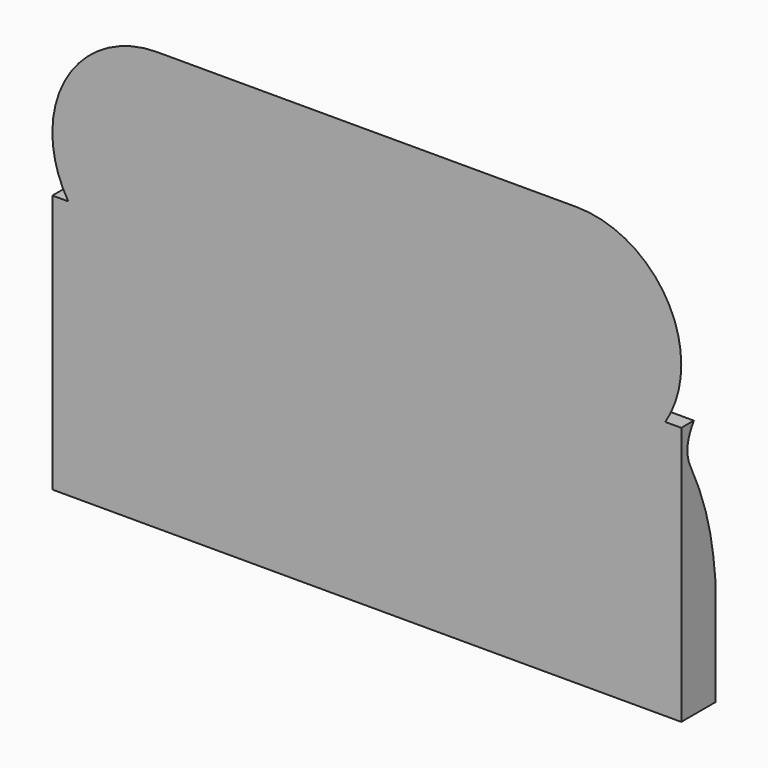
from build123d import *

# Parameters (mm, degrees)
PAD001_DEPTH              = 3
PAD001_DEPTH_BACK         = 3
REVOLUTION_ANGLE          = -90
PAD_DEPTH                 = 2
FUSION002_PLACEMENT_ANGLE = 90


with BuildPart() as body002:
    # Sketch002 → Pad001 (new body, two sides)
    with BuildSketch(Plane.YZ) as pad001_sk:
        with BuildLine():
            Line((0, -3), (0.41, -3))
            Line((0.41, -3), (0.41, -2))
            add(Edge.make_bspline(
                [(0.15, -0.53), (0.02526, -0.71971), (0.132942, -0.952639), (0.251229, -1.193198), (0.378371, -1.633026), (0.41, -2)],
                knots=[0, 0, 0, 0, 0.333333, 0.666667, 1, 1, 1, 1], degree=3))
            Line((0.15, -0.53), (0, -0.53))
            Line((0, -0.53), (0, -3))
        make_face()
    extrude(amount=PAD001_DEPTH)
    extrude(pad001_sk.sketch, amount=-PAD001_DEPTH_BACK)


with BuildPart() as body001:
    # Sketch001 → Revolution (revolve)
    with BuildSketch(Plane.YZ):
        with BuildLine():
            add(Edge.make_bspline(
                [(1, 0), (0.28, 0.03012), (0.24, 0.65), (0, 0.65)],
                knots=[0, 0, 0, 0, 1, 1, 1, 1], degree=3))
            Line((0, 0.65), (0, 0))
            Line((0, 0), (1, 0))
        make_face()
    revolve(axis=Axis((0, 0, 0), (0, 0, 1)), revolution_arc=REVOLUTION_ANGLE)


with BuildPart() as body001_1:
    # Body001 placement: moved
    add(body001.part.moved(Location((2, 0, 0))))


with BuildPart() as fusion:
    # Sketch → Pad (new body)
    with BuildSketch(Plane.YZ):
        with BuildLine():
            add(Edge.make_bspline(
                [(1, 0), (0.28, 0.03012), (0.24, 0.65), (0, 0.65)],
                knots=[0, 0, 0, 0, 1, 1, 1, 1], degree=3))
            Line((0, 0.65), (0, 0))
            Line((0, 0), (1, 0))
        make_face()
    extrude(amount=PAD_DEPTH)

    # Fusion: union Body001
    add(body001_1.part)


with BuildPart() as fusion001:
    # Part__Mirroring: instance of Fusion
    add(fusion.part.mirror(Plane(origin=(0, 0, 0), x_dir=(0, -1, 0), z_dir=(1, 0, 0))))

    # Fusion001: union Fusion
    add(fusion.part)


with BuildPart() as part_mirroring001:
    # Part__Mirroring001: instance of Fusion001
    add(fusion001.part.mirror(Plane(origin=(0, 0, 0), x_dir=(1, 0, 0), z_dir=(0, 1, 0))))


with BuildPart() as fusion003:
    # Fusion002 base: copy of Fusion001
    add(fusion001.part)

    # Fusion002: union Part__Mirroring001
    add(part_mirroring001.part)


with BuildPart() as fusion003_1:
    # Fusion002 placement: moved
    add(fusion003.part.rotate(Axis((0, 0, 0), (-1, 0, 0)), FUSION002_PLACEMENT_ANGLE))

    # Fusion003: union Body002
    add(body002.part)


solid = fusion003_1.part
